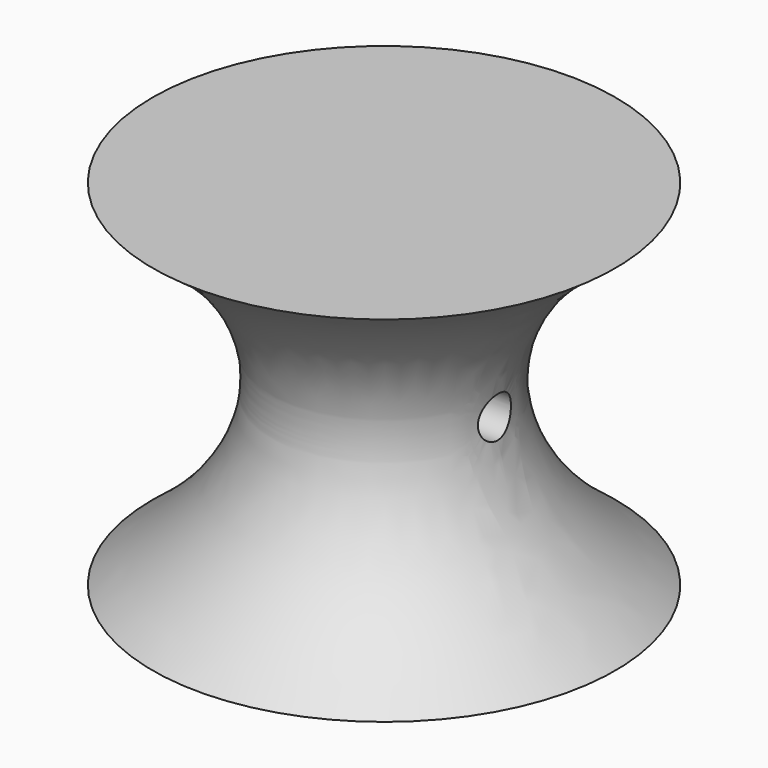
from build123d import *

# Parameters (mm, degrees)
F1_DEPTH = 7
F5_R     = 1.25
F6_DEPTH = 12.7
F7_DEPTH = 12.7


with BuildPart() as f1:
    # F0 (on Top) → F1 (new body)
    with BuildSketch(Plane.XY):
        with BuildLine():
            Line((2.45, -0.1566045976), (2.45, 0.1566045976))
            ThreePointArc((2.45, 0.1566045976), (2.3079752756, 0.8368244303), (1.9810413928, 1.45))
            Line((1.9810413928, 1.45), (-1.9810413928, 1.45))
            ThreePointArc((-1.9810413928, 1.45), (-2.3079752756, 0.8368244303), (-2.45, 0.1566045976))
            Line((-2.45, 0.1566045976), (-2.45, -0.1566045976))
            ThreePointArc((-2.45, -0.1566045976), (-2.3079752756, -0.8368244303), (-1.9810413928, -1.45))
            Line((-1.9810413928, -1.45), (1.9810413928, -1.45))
            ThreePointArc((1.9810413928, -1.45), (2.3079752756, -0.8368244303), (2.45, -0.1566045976))
        make_face()
    extrude(amount=F1_DEPTH)


with BuildPart() as f3:
    # F2 (on Front) → F3 (revolve)
    with BuildSketch(Plane.XZ):
        with BuildLine():
            Line((-14, 0), (0, 0))
            Line((0, 0), (0, 21.4365181362))
            Line((0, 21.4365181362), (-14, 21.4365181362))
            add(Edge.make_bspline(
                [(-14, 0), (-8.8714333251, 3.8340229075), (-4.6648319414, 11.2416137663), (-8.975234814, 18.0547777563), (-14, 21.4365181362)],
                knots=[0, 0, 0, 0, 0.5078007038, 1, 1, 1, 1], degree=3))
        make_face()
    revolve(axis=Axis((0, 0, 10.7182590681), (0, 0, -1)))

    # F4: cut F1
    add(f1.part, mode=Mode.SUBTRACT)

    # F5 (on Right) → F6 (cut)
    with BuildSketch(Plane.YZ):
        with Locations((0, 11.1907251761)):
            Circle(F5_R)
    extrude(amount=-F6_DEPTH, mode=Mode.SUBTRACT)

    # F5 (on Right) → F7 (cut)
    with BuildSketch(Plane.YZ):
        with Locations((0, 11.1907251761)):
            Circle(F5_R)
    extrude(amount=F7_DEPTH, mode=Mode.SUBTRACT)


solid = f3.part
